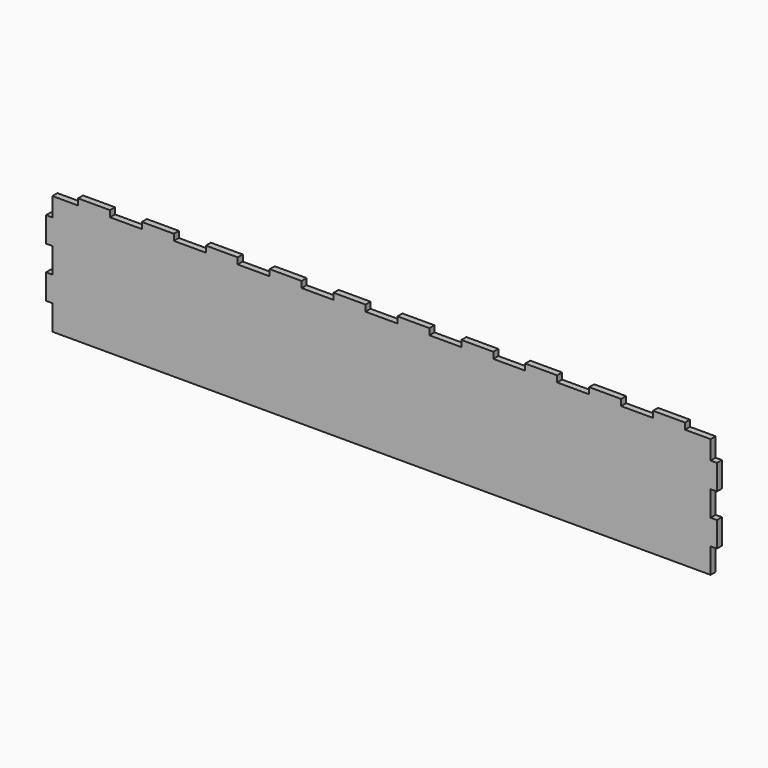
from build123d import *

# Parameters (mm, degrees)
F1_DEPTH = 3


with BuildPart() as f1:
    # F0 (on Front) → F1 (new body)
    with BuildSketch(Plane.XZ):
        Polygon((-157, -30), (157, -30), (157, -18), (160, -18), (160, -6), (157, -6), (157, 6), (160, 6), (160, 18), (157, 18), (157, 27), (144.761905, 27), (144.761905, 30), (129.52381, 30), (129.52381, 27), (114.285714, 27), (114.285714, 30), (99.047619, 30), (99.047619, 27), (83.809524, 27), (83.809524, 30), (68.571429, 30), (68.571429, 27), (53.333333, 27), (53.333333, 30), (38.095238, 30), (38.095238, 27), (22.857143, 27), (22.857143, 30), (7.619048, 30), (7.619048, 27), (-7.619048, 27), (-7.619048, 30), (-22.857143, 30), (-22.857143, 27), (-38.095238, 27), (-38.095238, 30), (-53.333333, 30), (-53.333333, 27), (-68.571429, 27), (-68.571429, 30), (-83.809524, 30), (-83.809524, 27), (-99.047619, 27), (-99.047619, 30), (-114.285714, 30), (-114.285714, 27), (-129.52381, 27), (-129.52381, 30), (-144.761905, 30), (-144.761905, 27), (-157, 27), (-157, 18), (-160, 18), (-160, 6), (-157, 6), (-157, -6), (-160, -6), (-160, -18), (-157, -18), align=None)
    extrude(amount=F1_DEPTH)


solid = f1.part
